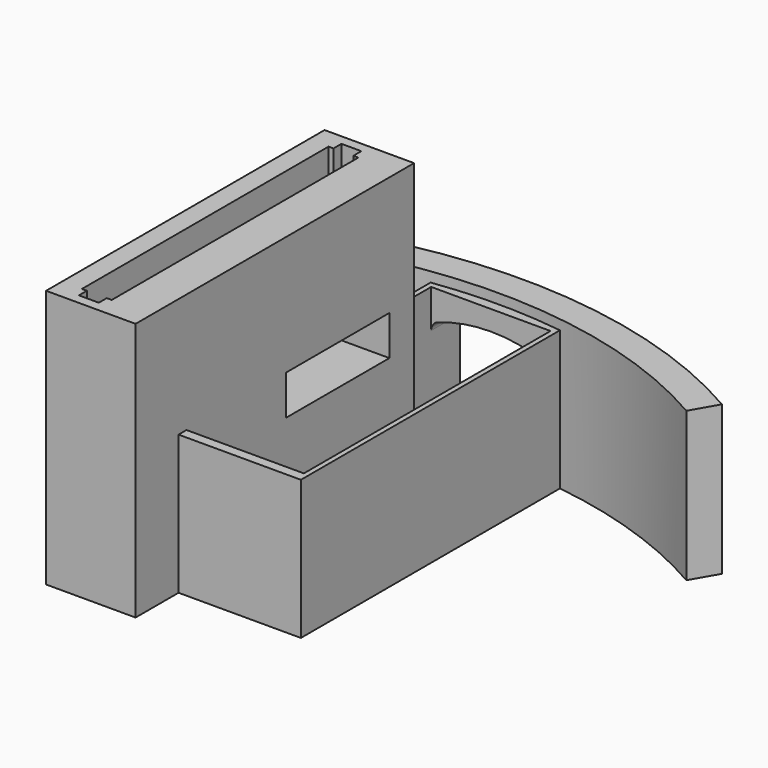
from build123d import *

# Parameters (mm, degrees)
BOX005_W                    = 10
BOX005_H                    = 13
BOX005_DEPTH                = 4
BOX004_W                    = 3
BOX004_H                    = 31
BOX004_DEPTH                = 14
BOX003_W                    = 2
BOX003_H                    = 33
BOX003_DEPTH                = 11.2
BOX002_W                    = 9
BOX002_H                    = 35
BOX002_DEPTH                = 26
EXTRUDE_DEPTH               = 5
EXTRUDE001_DEPTH            = 5
THICKNESS_T                 = 1
BOX_W                       = 12
BOX_H                       = 31
BOX_DEPTH                   = 15
BOX001_W                    = 13
BOX001_H                    = 34
BOX001_DEPTH                = 14
CYLINDER001_W               = 48
CYLINDER001_H               = 15
CYLINDER001_ANGLE           = 60
CYLINDER001_PLACEMENT_ANGLE = 60
CYLINDER_W                  = 51
CYLINDER_H                  = 15
CYLINDER_ANGLE              = 60
CYLINDER_PLACEMENT_ANGLE    = 60


with BuildPart() as servo_wall_cutaway:
    # Box005 → Box005 (new body)
    with BuildSketch(Plane(origin=(-6, 19.5, 10), x_dir=(1, 0, 0), z_dir=(0, 0, 1))):
        with Locations((5, 6.5)):
            Rectangle(BOX005_W, BOX005_H)
    extrude(amount=BOX005_DEPTH)


with BuildPart() as slot_wall_cutout2:
    # Box004 → Box004 (new body)
    with BuildSketch(Plane(origin=(-1, 7, 14), x_dir=(1, 0, 0), z_dir=(0, 0, 1))):
        with Locations((1.5, 15.5)):
            Rectangle(BOX004_W, BOX004_H)
    extrude(amount=BOX004_DEPTH)


with BuildPart() as slot_wall_cutout1:
    # Box003 → Box003 (new body)
    with BuildSketch(Plane(origin=(-0.5, 6, 20), x_dir=(1, 0, 0), z_dir=(0, 0, 1))):
        with Locations((1, 16.5)):
            Rectangle(BOX003_W, BOX003_H)
    extrude(amount=BOX003_DEPTH)


with BuildPart() as wall_slot_finished:
    # Box002 → Box002 (new body)
    with BuildSketch(Plane(origin=(-3, 5, 0), x_dir=(1, 0, 0), z_dir=(0, 0, 1))):
        with Locations((4.5, 17.5)):
            Rectangle(BOX002_W, BOX002_H)
    extrude(amount=BOX002_DEPTH)

    # Cut003: cut slot wall cutout1
    add(slot_wall_cutout1.part, mode=Mode.SUBTRACT)

    # Cut004: cut slot wall cutout2
    add(slot_wall_cutout2.part, mode=Mode.SUBTRACT)


with BuildPart() as wall_slot_finished_1:
    # Cut004 placement: moved
    add(wall_slot_finished.part.moved(Location((-3.3, -4.4, 0))))


with BuildPart() as extrude_body:
    with BuildSketch(Plane(origin=(8.5, 45, 6), x_dir=(1, 0, 0), z_dir=(0, 1, 0))):
        with BuildLine():
            Line((5, 4), (-5, 4))
            Line((-5, 4), (-5, -3.142136))
            ThreePointArc((-5, -3.142136), (-2.53653, -3.783978), (0, -4))
            ThreePointArc((0, -4), (2.53653, -3.783978), (5, -3.142136))
            Line((5, -3.142136), (5, 4))
        make_face()
    extrude(amount=EXTRUDE_DEPTH)


with BuildPart() as extrude001:
    with BuildSketch(Plane(origin=(8.5, 45, 6), x_dir=(1, 0, 0), z_dir=(0, 1, 0))):
        with BuildLine():
            Line((5, 4), (-5, 4))
            Line((-5, 4), (-5, -3.142136))
            ThreePointArc((-5, -3.142136), (-2.53653, -3.783978), (0, -4))
            ThreePointArc((0, -4), (2.53653, -3.783978), (5, -3.142136))
            Line((5, -3.142136), (5, 4))
        make_face()
    extrude(amount=EXTRUDE001_DEPTH)


with BuildPart() as bolt_bottle_side_opening:
    # Thickness base: copy of Extrude body
    add(extrude_body.part)

    # Thickness
    thickness_openings = [bolt_bottle_side_opening.faces().sort_by_distance(p)[0] for p in [
        (8.5, 50, 5.862901),
    ]]
    offset(amount=THICKNESS_T, openings=thickness_openings)

    # Fusion: union Extrude body, Extrude001
    add(extrude_body.part)
    add(extrude001.part)


with BuildPart() as bolt_bottle_side_opening_1:
    # Fusion placement: moved
    add(bolt_bottle_side_opening.part.moved(Location((0, -7, 1))))


with BuildPart() as pullbay:
    # Box → Box (new body)
    with BuildSketch(Plane(origin=(2.5, 7, 2), x_dir=(1, 0, 0), z_dir=(0, 0, 1))):
        with Locations((6, 15.5)):
            Rectangle(BOX_W, BOX_H)
    extrude(amount=BOX_DEPTH)


with BuildPart() as cut_bay_from_case:
    # Box001 → Box001 (new body)
    with BuildSketch(Plane(origin=(2, 6, 0), x_dir=(1, 0, 0), z_dir=(0, 0, 1))):
        with Locations((6.5, 17)):
            Rectangle(BOX001_W, BOX001_H)
    extrude(amount=BOX001_DEPTH)

    # Cut001: cut pullBay
    add(pullbay.part, mode=Mode.SUBTRACT)


with BuildPart() as bottle_wall001:
    # Cylinder001 → Cylinder001 (revolve)
    with BuildSketch(Plane.XZ):
        with Locations((24, 7.5)):
            Rectangle(CYLINDER001_W, CYLINDER001_H)
    revolve(axis=Axis((0, 0, 0), (0, 0, 1)), revolution_arc=CYLINDER001_ANGLE)


with BuildPart() as bottle_wall001_1:
    # Cylinder001 placement: moved
    add(bottle_wall001.part.moved(Location((8.5, -7, 0))).rotate(Axis((8.5, -7, 0), (0, 0, 1)), CYLINDER001_PLACEMENT_ANGLE))


with BuildPart() as cut005:
    # Cylinder → Cylinder (revolve)
    with BuildSketch(Plane.XZ):
        with Locations((25.5, 7.5)):
            Rectangle(CYLINDER_W, CYLINDER_H)
    revolve(axis=Axis((0, 0, 0), (0, 0, 1)), revolution_arc=CYLINDER_ANGLE)


with BuildPart() as cut005_1:
    # Cylinder placement: moved
    add(cut005.part.moved(Location((8.5, -7, 0))).rotate(Axis((8.5, -7, 0), (0, 0, 1)), CYLINDER_PLACEMENT_ANGLE))

    # Cut: cut bottle_wall001
    add(bottle_wall001_1.part, mode=Mode.SUBTRACT)


with BuildPart() as cut005_2:
    # Cut placement: moved
    add(cut005_1.part.moved(Location((0, -2, 0))))

    # Fusion001: union cut bay from case
    add(cut_bay_from_case.part)

    # Cut002: cut bolt_bottle_side_opening
    add(bolt_bottle_side_opening_1.part, mode=Mode.SUBTRACT)

    # Fusion002: union wall slot finished
    add(wall_slot_finished_1.part)

    # Cut005: cut servo wall cutaway
    add(servo_wall_cutaway.part, mode=Mode.SUBTRACT)


solid = cut005_2.part
